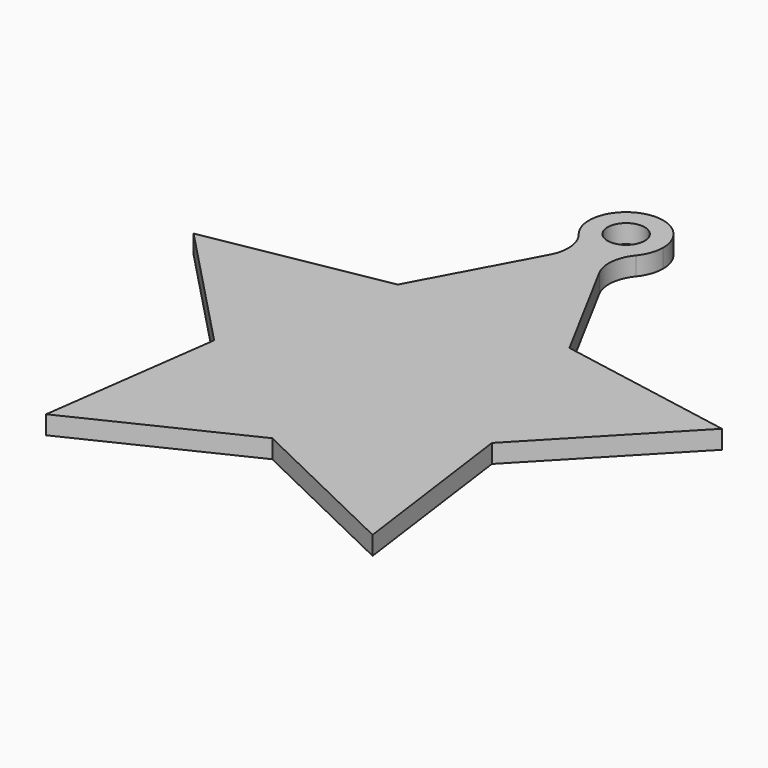
from build123d import *

# Parameters (mm, degrees)
F1_DEPTH = 1


with BuildPart() as f1:
    # F0 (on Top) → F1 (new body)
    with BuildSketch(Plane.XY):
        with BuildLine():
            Line((4.6352549156, 6.3798810626), (1.3339177444, 12.5193317695))
            Line((1.3339177444, 12.5193317695), (0.503138004, 14.0643212692))
            ThreePointArc((0.503138004, 14.0643212692), (0, 14), (-0.503138004, 14.0643212692))
            Line((-0.503138004, 14.0643212692), (-1.3339177444, 12.5193317695))
            Line((-1.3339177444, 12.5193317695), (-4.6352549156, 6.3798810626))
            Line((-4.6352549156, 6.3798810626), (-14.2658477444, 4.6352549156))
            Line((-14.2658477444, 4.6352549156), (-7.5, -2.4368977217))
            Line((-7.5, -2.4368977217), (-8.8167787844, -12.1352549156))
            Line((-8.8167787844, -12.1352549156), (0, -7.8859666818))
            Line((0, -7.8859666818), (8.8167787844, -12.1352549156))
            Line((8.8167787844, -12.1352549156), (7.5, -2.4368977217))
            Line((7.5, -2.4368977217), (14.2658477444, 4.6352549156))
            Line((14.2658477444, 4.6352549156), (4.6352549156, 6.3798810626))
        make_face()
        with BuildLine():
            Line((0.503138004, 14.0643212692), (1.3339177444, 12.5193317695))
            ThreePointArc((1.3339177444, 12.5193317695), (1.1046607275, 13.6587566576), (1.547700554, 14.7332628547))
            ThreePointArc((1.547700554, 14.7332628547), (1.0785895461, 14.315765874), (0.503138004, 14.0643212692))
        make_face()
        with BuildLine():
            ThreePointArc((-0.503138004, 14.0643212692), (0, 14), (0.503138004, 14.0643212692))
            Line((0.503138004, 14.0643212692), (0, 15))
            Line((0, 15), (-0.503138004, 14.0643212692))
        make_face()
        with BuildLine():
            Line((-1.3339177444, 12.5193317695), (-0.503138004, 14.0643212692))
            ThreePointArc((-0.503138004, 14.0643212692), (-1.0785895461, 14.315765874), (-1.547700554, 14.7332628547))
            ThreePointArc((-1.547700554, 14.7332628547), (-1.1046607275, 13.6587566576), (-1.3339177444, 12.5193317695))
        make_face()
        with BuildLine():
            Line((0, 15), (0.503138004, 14.0643212692))
            ThreePointArc((0.503138004, 14.0643212692), (1.0785895461, 14.315765874), (1.547700554, 14.7332628547))
            ThreePointArc((1.547700554, 14.7332628547), (1.8835340597, 15.3274678848), (2, 16))
            ThreePointArc((2, 16), (-0.6725321152, 17.8835340597), (-1.547700554, 14.7332628547))
            ThreePointArc((-1.547700554, 14.7332628547), (-1.0785895461, 14.315765874), (-0.503138004, 14.0643212692))
            Line((-0.503138004, 14.0643212692), (0, 15))
        make_face()
        with BuildLine():
            ThreePointArc((1, 16), (0.7071067812, 15.2928932188), (0, 15))
            ThreePointArc((0, 15), (-0.7071067812, 16.7071067812), (1, 16))
        make_face(mode=Mode.SUBTRACT)
    extrude(amount=F1_DEPTH)


solid = f1.part
